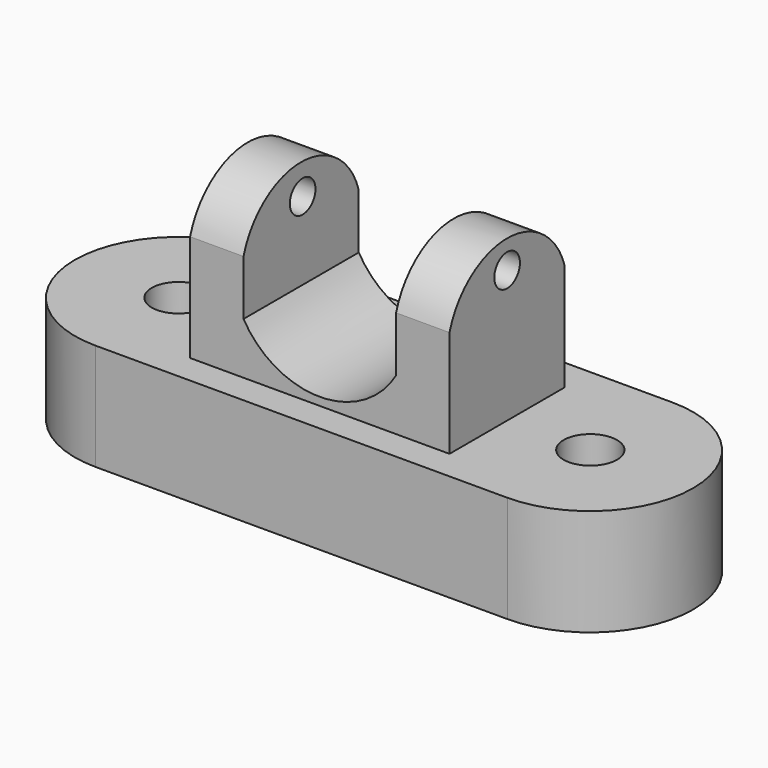
from build123d import *

# Parameters (mm, degrees)
F0_R     = 6.35
F1_DEPTH = 25.4
F2_W     = 61.6878718138
F2_H     = 34.2521034181
F3_DEPTH = 25.4
F5_DEPTH = 36.322
F6_R     = 3.81
F7_DEPTH = 12.7
F8_R     = 3.81
F9_DEPTH = 12.7


with BuildPart() as f1:
    # F0 (on Top) → F1 (new body)
    with BuildSketch(Plane.XY):
        with BuildLine():
            Line((48.9668589424, 24.4255484226), (-48.9668589424, 24.4255484226))
            ThreePointArc((-48.9668589424, 24.4255484226), (-73.5081685676, -0.1157612025), (-48.9668589424, -24.6570708277))
            Line((-48.9668589424, -24.6570708277), (48.9668589424, -24.6570708277))
            ThreePointArc((48.9668589424, -24.6570708277), (73.5081685676, -0.1157612025), (48.9668589424, 24.4255484226))
        make_face()
        with Locations((-48.9668589424, 0)):
            Circle(F0_R, mode=Mode.SUBTRACT)
        with Locations((48.9668589424, 0)):
            Circle(F0_R, mode=Mode.SUBTRACT)
    extrude(amount=F1_DEPTH)

    # F2 (on face) → F3 (join)
    with BuildSketch(Plane.XY.offset(25.4)):
        with Locations((-1.2954026461, -0.45302324)):
            Rectangle(F2_W, F2_H)
    extrude(amount=F3_DEPTH)

    # F4 (on face) → F5 (cut)
    with BuildSketch(Plane.XZ.offset(17.579074949)):
        with BuildLine():
            Line((16.8485332608, 50.8), (-19.439338553, 50.8))
            Line((-19.439338553, 50.8), (-19.439338553, 37.702742964))
            ThreePointArc((-19.439338553, 37.702742964), (-1.2954026461, 27.2985841975), (16.8485332608, 37.702742964))
            Line((16.8485332608, 37.702742964), (16.8485332608, 50.8))
        make_face()
    extrude(amount=-F5_DEPTH, mode=Mode.SUBTRACT)

    # F6 (on face) → F7 (join)
    with BuildSketch(Plane(origin=(-32.139338553, 0, 0), x_dir=(0, -1, 0), z_dir=(-1, 0, 0))):
        with BuildLine():
            Line((-16.6730284691, 50.8), (17.579074949, 50.8))
            ThreePointArc((17.579074949, 50.8), (0.45302324, 63.5928311153), (-16.6730284691, 50.8))
        make_face()
        with Locations((0, 56.2153086066)):
            Circle(F6_R, mode=Mode.SUBTRACT)
    extrude(amount=-F7_DEPTH)

    # F8 (on face) → F9 (join)
    with BuildSketch(Plane.YZ.offset(29.5485332608)):
        with BuildLine():
            ThreePointArc((16.6730284691, 50.8), (-0.45302324, 63.5665881357), (-17.579074949, 50.8))
            Line((-17.579074949, 50.8), (16.6730284691, 50.8))
        make_face()
        with Locations((-0.45302324, 56.8834878504)):
            Circle(F8_R, mode=Mode.SUBTRACT)
    extrude(amount=-F9_DEPTH)


solid = f1.part
